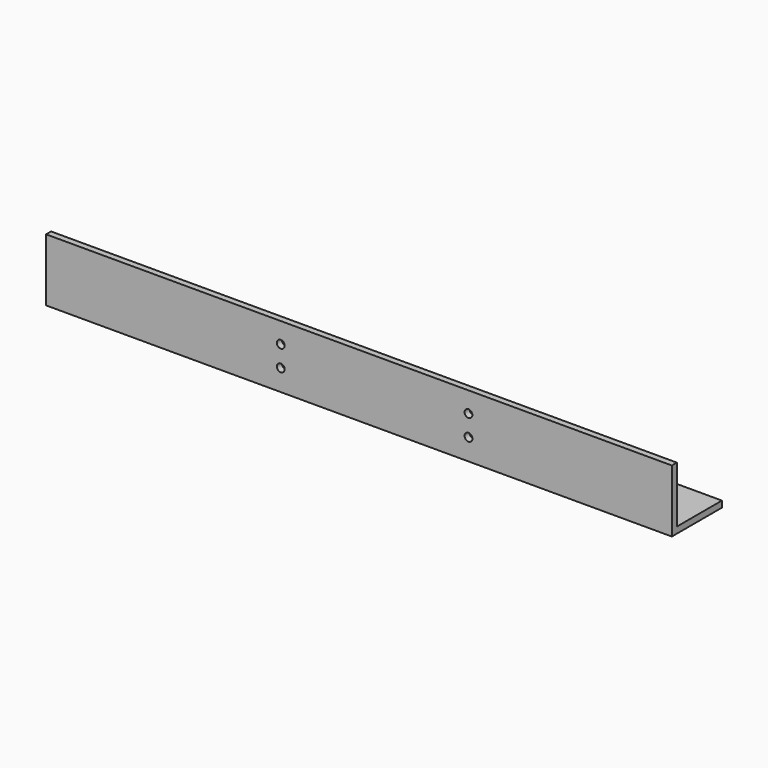
from build123d import *

# Parameters (mm, degrees)
F0_W     = 254
F0_H     = 25.4
F1_DEPTH = 25.4
F2_T     = -2.54
F4_D     = 3.175
F6_D     = 3.175


with BuildPart() as f1:
    # F0 (on Top) → F1 (new body)
    with BuildSketch(Plane.XY):
        with Locations((-1.209586, 4.511842)):
            Rectangle(F0_W, F0_H)
    extrude(amount=F1_DEPTH)

    # F2
    f2_openings = [f1.faces().sort_by_distance(p)[0] for p in [
        (-1.209586, 4.511842, 25.4),
        (-1.209586, 17.211842, 12.7),
        (125.790414, 4.511842, 12.7),
        (-128.209586, 4.511842, 12.7),
    ]]
    offset(amount=F2_T, openings=f2_openings)

    # F4 (through all)
    with Locations(Plane.XY.offset(2.54)):
        with Locations((63.5, 6.789771), (0, 6.789771), (-64.709586, 6.789771)):
            Hole(F4_D / 2)

    # F6 (through all)
    with Locations(Plane(origin=(0, -5.648158, 0), x_dir=(-1, 0, 0), z_dir=(0, 1, 0))):
        with Locations((-43.240414, 8.641747), (-43.240414, 17.108414), (32.959586, 17.108414), (32.959586, 8.641747)):
            Hole(F6_D / 2)


solid = f1.part
